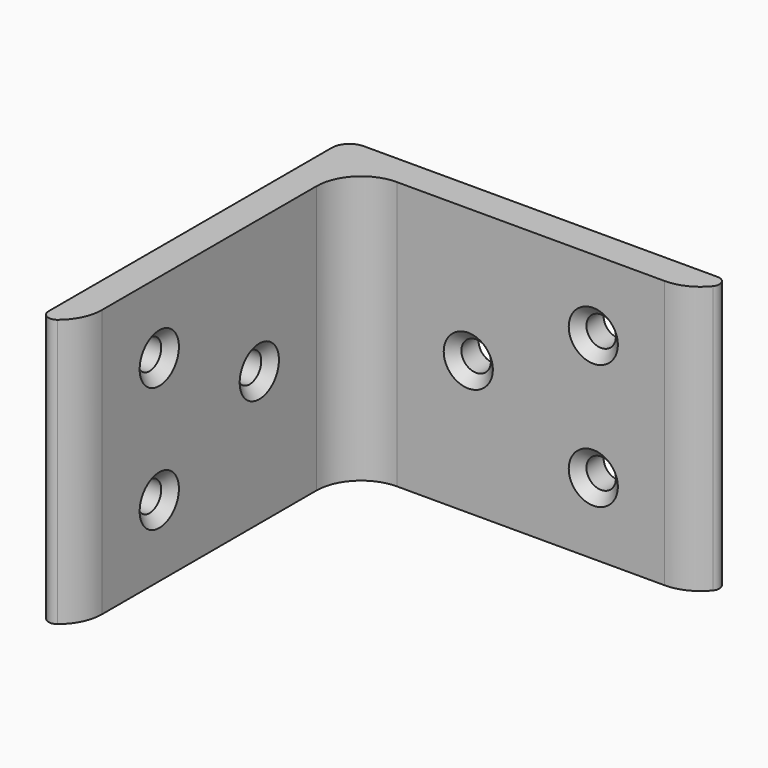
from build123d import *

# Parameters (mm, degrees)
F1_DEPTH             = 30
F4_D                 = 3.3
F4_CSINK_D           = 5.5
F4_CSINK_ANGLE       = 90
F4_ON_F3_D           = 3.3
F4_ON_F3_CSINK_D     = 5.5
F4_ON_F3_CSINK_ANGLE = 90
F5_R                 = 1


with BuildPart() as f1:
    # F0 (on Top) → F1 (new body)
    with BuildSketch(Plane.XY):
        with BuildLine():
            ThreePointArc((-3.5, -39.7696960071), (-0.9688711259, -37.9580398915), (0, -35))
            Line((0, -35), (0, -5))
            ThreePointArc((0, -5), (1.4644660941, -1.4644660941), (5, 0))
            Line((5, 0), (35, 0))
            ThreePointArc((35, 0), (37.9580398915, 0.9688711259), (39.7696960071, 3.5))
            Line((39.7696960071, 3.5), (-1.5, 3.5))
            ThreePointArc((-1.5, 3.5), (-2.9142135624, 2.9142135624), (-3.5, 1.5))
            Line((-3.5, 1.5), (-3.5, -39.7696960071))
        make_face()
    extrude(amount=F1_DEPTH)

    # F4 (through all)
    with Locations(Plane.XZ):
        with Locations((13, 15), (27, 22), (27, 8)):
            CounterSinkHole(F4_D / 2, F4_CSINK_D / 2, counter_sink_angle=F4_CSINK_ANGLE)

    # F4 on F3 (through all)
    with Locations(Plane.YZ):
        with Locations((-13, 15), (-27, 22), (-27, 8)):
            CounterSinkHole(F4_ON_F3_D / 2, F4_ON_F3_CSINK_D / 2, counter_sink_angle=F4_ON_F3_CSINK_ANGLE)

    # F5
    f5_edges = [f1.edges().sort_by_distance(p)[0] for p in [
        (-3.5, -39.769696, 15),
        (39.769696, 3.5, 15),
    ]]
    fillet(f5_edges, radius=F5_R)


solid = f1.part
